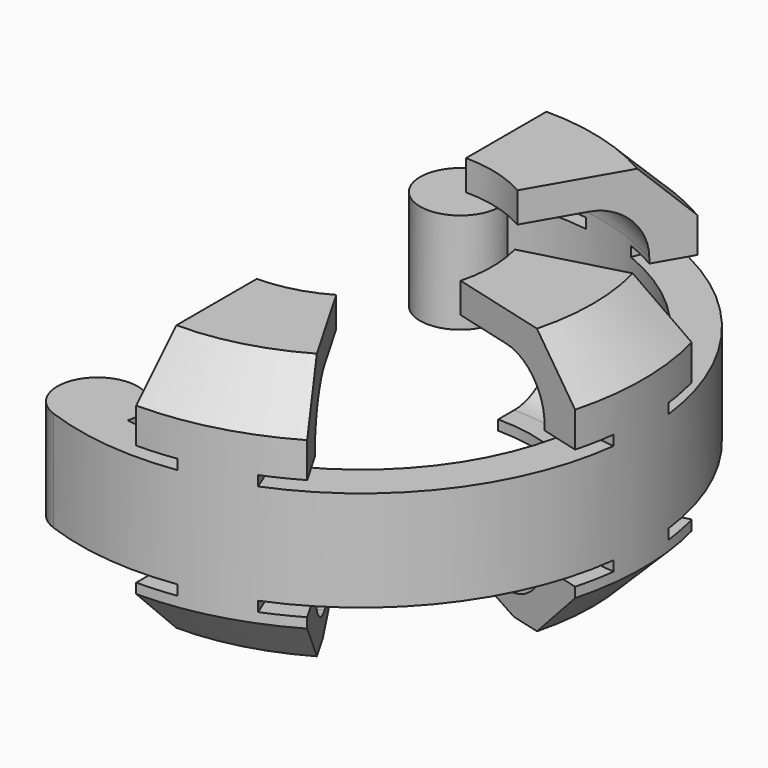
from build123d import *

# Parameters (mm, degrees)
F0_W            = 4
F0_H            = 10
F1_ANGLE_BACK   = 110
F1_ANGLE        = 220
F2_ANGLE_START  = 60
F2_ANGLE        = 30
F3_ANGLE_START  = 60
F3_ANGLE        = 30
F4_ANGLE_BACK   = 15
F4_ANGLE        = 30
F5_R            = 4
F6_DEPTH        = 10
F7_R            = 5
F8_SIZE         = 5
F9_W            = 10
F9_H            = 1
F10_ANGLE_START = 7
F10_ANGLE       = 13
F11_ANGLE_START = 7
F11_ANGLE       = 13
F12_ANGLE_START = 82
F12_ANGLE       = 13
F13_ANGLE_START = 82
F13_ANGLE       = 13
F14_ANGLE_START = 55
F14_ANGLE       = 13
F15_ANGLE_START = 55
F15_ANGLE       = 13


with BuildPart() as f1:
    # F0 (on Front) → F1 (revolve)
    with BuildSketch(Plane.XZ, mode=Mode.PRIVATE) as f1_sk:
        with Locations((26, 10)):
            Rectangle(F0_W, F0_H)
    revolve(f1_sk.sketch.rotate(Axis((0, 0, 10), (0, 0, 1)), -F1_ANGLE_BACK), axis=Axis((0, 0, 10), (0, 0, 1)), revolution_arc=F1_ANGLE)

    # F0 (on Front) → F2 (revolve)
    with BuildSketch(Plane.XZ, mode=Mode.PRIVATE) as f2_sk:
        Polygon((24, 21.5), (24, 15), (28, 15), (28, 24.5), (13, 24.5), (13, 21.5), align=None)
        Polygon((28, 5), (24, 5), (24, 0), (17, 0), (17, -1), (20, -2), (28, -2), align=None)
    revolve(f2_sk.sketch.rotate(Axis((0, 0, 10), (0, 0, -1)), F2_ANGLE_START), axis=Axis((0, 0, 10), (0, 0, -1)), revolution_arc=F2_ANGLE)

    # F0 (on Front) → F3 (revolve)
    with BuildSketch(Plane.XZ, mode=Mode.PRIVATE) as f3_sk:
        Polygon((24, 21.5), (24, 15), (28, 15), (28, 24.5), (13, 24.5), (13, 21.5), align=None)
        Polygon((28, 5), (24, 5), (24, 0), (17, 0), (17, -1), (20, -2), (28, -2), align=None)
    revolve(f3_sk.sketch.rotate(Axis((0, 0, 10), (0, 0, 1)), F3_ANGLE_START), axis=Axis((0, 0, 10), (0, 0, 1)), revolution_arc=F3_ANGLE)

    # F0 (on Front) → F4 (revolve)
    with BuildSketch(Plane.XZ, mode=Mode.PRIVATE) as f4_sk:
        Polygon((24, 21.5), (24, 15), (28, 15), (28, 24.5), (13, 24.5), (13, 21.5), align=None)
        Polygon((28, 5), (24, 5), (24, 0), (17, 0), (17, -1), (20, -2), (28, -2), align=None)
    revolve(f4_sk.sketch.rotate(Axis((0, 0, 10), (0, 0, 1)), -F4_ANGLE_BACK), axis=Axis((0, 0, 10), (0, 0, 1)), revolution_arc=F4_ANGLE)

    # F5 (on face) → F6 (join, through all)
    with BuildSketch(Plane.XY.offset(15)):
        with Locations((-8.2084834398, 22.5526228989)):
            Circle(F5_R)
        with Locations((-8.2084834398, -22.5526228989)):
            Circle(F5_R)
    extrude(amount=-F6_DEPTH)

    # F7
    f7_edges = [f1.edges().sort_by_distance(p)[0] for p in [
        (24, 0, 21.5),
        (6.211657, 23.18222, 21.5),
        (6.211657, -23.18222, 21.5),
        (6.211657, -23.18222, 0),
        (6.211657, 23.18222, 0),
        (24, 0, 0),
    ]]
    fillet(f7_edges, radius=F7_R)

    # F8
    f8_edges = [f1.edges().sort_by_distance(p)[0] for p in [
        (7.246933, 27.045923, 24.5),
        (28, 0, 24.5),
        (7.246933, -27.045923, 24.5),
        (7.246933, -27.045923, -2),
        (7.246933, 27.045923, -2),
        (28, 0, -2),
    ]]
    chamfer(f8_edges, length=F8_SIZE)

    # F9 (on Front) → F10 (revolve, cut)
    with BuildSketch(Plane.XZ, mode=Mode.PRIVATE) as f10_sk:
        with Locations((27, 15.5)):
            Rectangle(F9_W, F9_H)
        with Locations((27, 4.5)):
            Rectangle(F9_W, F9_H)
    revolve(f10_sk.sketch.rotate(Axis((0, 0, 10), (0, 0, -1)), F10_ANGLE_START), axis=Axis((0, 0, 10), (0, 0, -1)), revolution_arc=F10_ANGLE, mode=Mode.SUBTRACT)

    # F9 (on Front) → F11 (revolve, cut)
    with BuildSketch(Plane.XZ, mode=Mode.PRIVATE) as f11_sk:
        with Locations((27, 15.5)):
            Rectangle(F9_W, F9_H)
        with Locations((27, 4.5)):
            Rectangle(F9_W, F9_H)
    revolve(f11_sk.sketch.rotate(Axis((0, 0, 10), (0, 0, 1)), F11_ANGLE_START), axis=Axis((0, 0, 10), (0, 0, 1)), revolution_arc=F11_ANGLE, mode=Mode.SUBTRACT)

    # F9 (on Front) → F12 (revolve, cut)
    with BuildSketch(Plane.XZ, mode=Mode.PRIVATE) as f12_sk:
        with Locations((27, 15.5)):
            Rectangle(F9_W, F9_H)
        with Locations((27, 4.5)):
            Rectangle(F9_W, F9_H)
    revolve(f12_sk.sketch.rotate(Axis((0, 0, 10), (0, 0, 1)), F12_ANGLE_START), axis=Axis((0, 0, 10), (0, 0, 1)), revolution_arc=F12_ANGLE, mode=Mode.SUBTRACT)

    # F9 (on Front) → F13 (revolve, cut)
    with BuildSketch(Plane.XZ, mode=Mode.PRIVATE) as f13_sk:
        with Locations((27, 15.5)):
            Rectangle(F9_W, F9_H)
        with Locations((27, 4.5)):
            Rectangle(F9_W, F9_H)
    revolve(f13_sk.sketch.rotate(Axis((0, 0, 10), (0, 0, -1)), F13_ANGLE_START), axis=Axis((0, 0, 10), (0, 0, -1)), revolution_arc=F13_ANGLE, mode=Mode.SUBTRACT)

    # F9 (on Front) → F14 (revolve, cut)
    with BuildSketch(Plane.XZ, mode=Mode.PRIVATE) as f14_sk:
        with Locations((27, 15.5)):
            Rectangle(F9_W, F9_H)
        with Locations((27, 4.5)):
            Rectangle(F9_W, F9_H)
    revolve(f14_sk.sketch.rotate(Axis((0, 0, 10), (0, 0, -1)), F14_ANGLE_START), axis=Axis((0, 0, 10), (0, 0, -1)), revolution_arc=F14_ANGLE, mode=Mode.SUBTRACT)

    # F9 (on Front) → F15 (revolve, cut)
    with BuildSketch(Plane.XZ, mode=Mode.PRIVATE) as f15_sk:
        with Locations((27, 15.5)):
            Rectangle(F9_W, F9_H)
        with Locations((27, 4.5)):
            Rectangle(F9_W, F9_H)
    revolve(f15_sk.sketch.rotate(Axis((0, 0, 10), (0, 0, 1)), F15_ANGLE_START), axis=Axis((0, 0, 10), (0, 0, 1)), revolution_arc=F15_ANGLE, mode=Mode.SUBTRACT)


solid = f1.part
